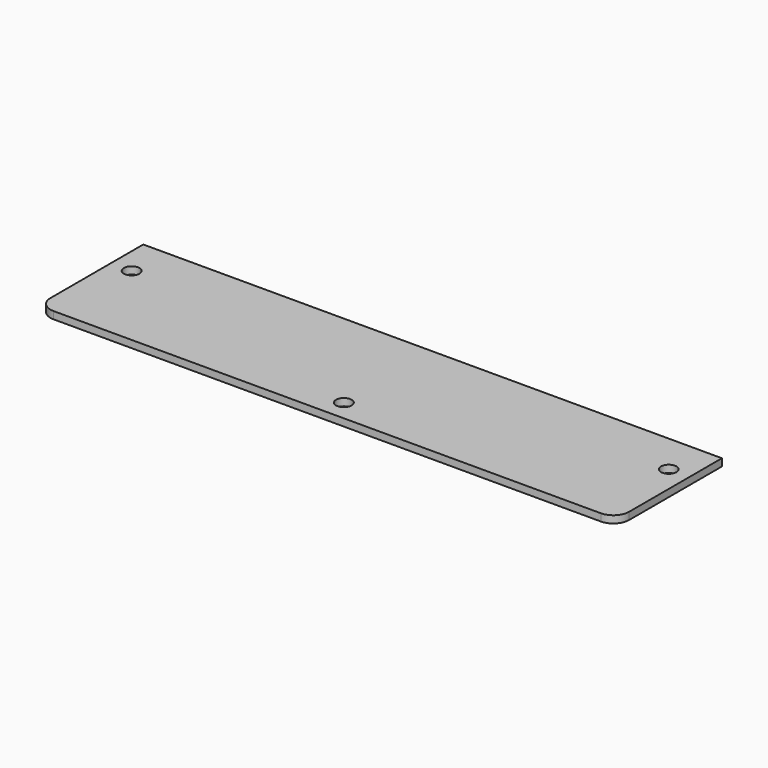
from build123d import *

# Parameters (mm, degrees)
F0_W     = 136.06526
F0_H     = 30.975021
F0_R     = 1.8288
F1_DEPTH = 1.70942
F2_R     = 3.69316


with BuildPart() as f1:
    # F0 (on Top) → F1 (new body)
    with BuildSketch(Plane.XY):
        with Locations((68.03263, -15.48751)):
            Rectangle(F0_W, F0_H)
        with Locations((68.03263, -26.090601)):
            Circle(F0_R, mode=Mode.SUBTRACT)
        with Locations((4.88442, -9.525)):
            Circle(F0_R, mode=Mode.SUBTRACT)
        with Locations((131.18084, -9.525)):
            Circle(F0_R, mode=Mode.SUBTRACT)
    extrude(amount=F1_DEPTH)

    # F2
    f2_edges = [f1.edges().sort_by_distance(p)[0] for p in [
        (0, -30.975021, 0.85471),
        (136.06526, -30.975021, 0.85471),
    ]]
    fillet(f2_edges, radius=F2_R)


solid = f1.part
